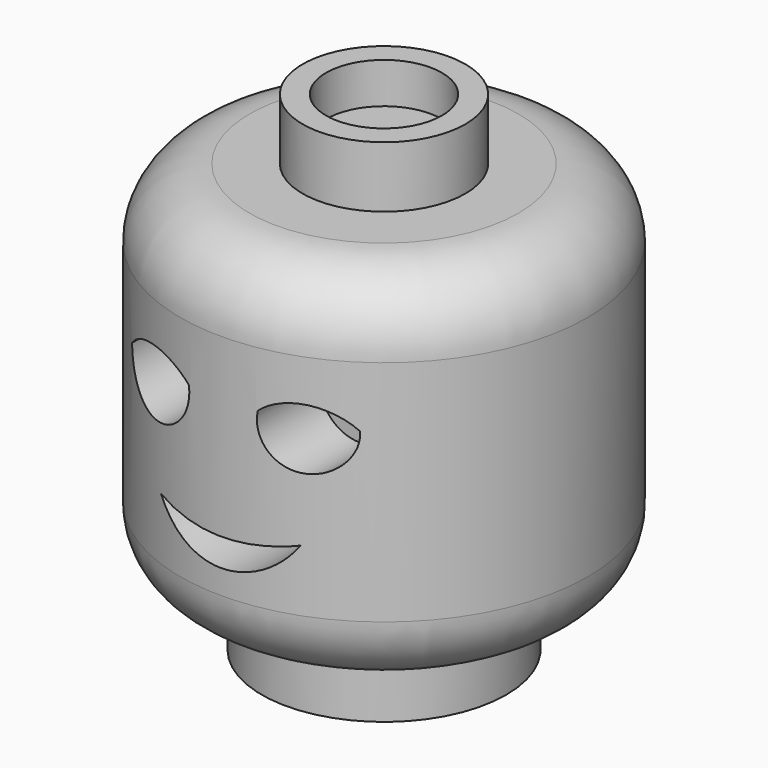
from build123d import *

# Parameters (mm, degrees)
F0_R      = 3
F1_DEPTH  = 12
F2_R      = 3.203206237
F2_R_2    = 1.9962564084
F3_DEPTH  = 1.5
F4_R      = 5
F5_DEPTH  = 9
F6_R      = 1.7
F7_R      = 1.4223649875
F8_DEPTH  = 1
F9_R      = 2.3001696125
F10_DEPTH = 5
F12_DEPTH = 25
F13_DEPTH = 3


with BuildPart() as f1:
    # F0 (on Top) → F1 (new body)
    with BuildSketch(Plane.XY):
        Circle(F0_R)
    extrude(amount=-F1_DEPTH)

    # F2 (on face) → F3 (cut)
    with BuildSketch(Plane.XY):
        Circle(F2_R)
        Circle(F2_R_2, mode=Mode.SUBTRACT)
    extrude(amount=-F3_DEPTH, mode=Mode.SUBTRACT)

    # F4 (on face) → F5 (join)
    with BuildSketch(Plane.XY.offset(-1.5)):
        Circle(F4_R)
    extrude(amount=-F5_DEPTH)

    # F6
    f6_edges = [f1.edges().sort_by_distance(p)[0] for p in [
        (5, 0, -6),
        (-5, 0, -1.5),
        (-5, 0, -10.5),
    ]]
    fillet(f6_edges, radius=F6_R)

    # F7 (on face) → F8 (cut)
    with BuildSketch(Plane.XY):
        Circle(F7_R)
    extrude(amount=-F8_DEPTH, mode=Mode.SUBTRACT)

    # F9 (on face) → F10 (cut)
    with BuildSketch(Plane(origin=(0, 0, -12), x_dir=(1, 0, 0), z_dir=(0, 0, -1))):
        Circle(F9_R)
    extrude(amount=-F10_DEPTH, mode=Mode.SUBTRACT)

    # F11 (on Front) → F12 (cut)
    with BuildSketch(Plane.XZ):
        with BuildLine():
            ThreePointArc((1.7097895663, -7.2849687191), (-0.003580854, -7.5244880061), (-1.715676859, -7.2760228068))
            ThreePointArc((-1.715676859, -7.2760228068), (-0.0053546607, -8.2036937796), (1.7097895663, -7.2849687191))
        make_face()
        with BuildLine():
            ThreePointArc((-2.9485186096, -4.6888017096), (-1.8248803235, -5.7631106344), (-0.84451411, -4.5566344634))
            ThreePointArc((-0.84451411, -4.5566344634), (-1.924158161, -4.1826811203), (-2.9485186096, -4.6888017096))
        make_face()
        with BuildLine():
            ThreePointArc((0.8465747233, -4.5566344634), (1.7231712571, -5.7150981177), (2.7513615138, -4.6888017096))
            ThreePointArc((2.7513615138, -4.6888017096), (1.826312953, -4.2286258966), (0.8465747233, -4.5566344634))
        make_face()
    extrude(amount=F12_DEPTH, mode=Mode.SUBTRACT)

    # F13 (add): faces of the model
    f13_faces = [f1.faces().sort_by_distance(p)[0] for p in [
        (-1.8763016609, 0, -4.9445210943),
        (1.7765781537, 0, -4.9454009795),
    ]]
    extrude(f13_faces, amount=F13_DEPTH)


solid = f1.part
